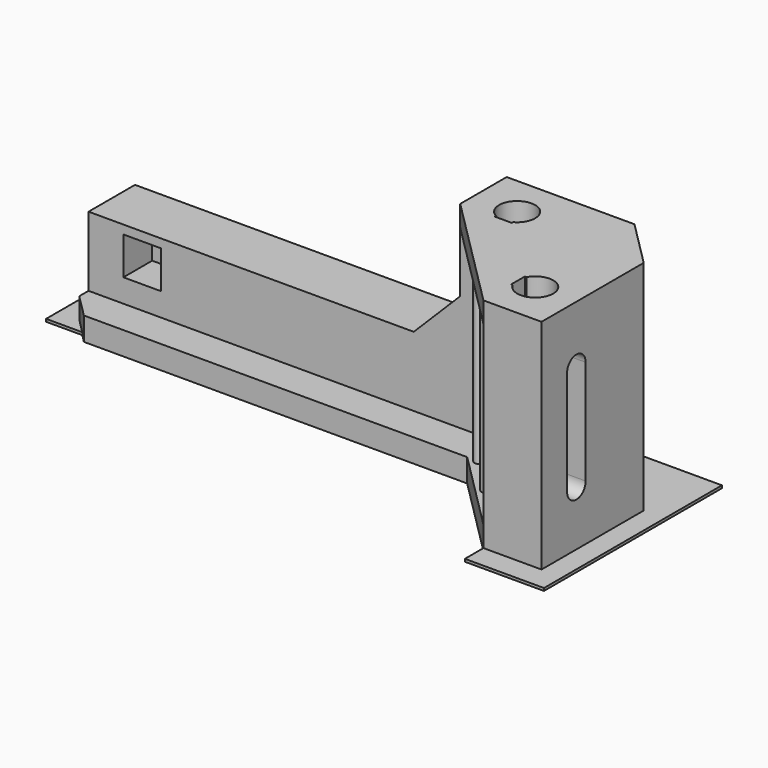
from build123d import *

# Parameters (mm, degrees)
PAD_DEPTH       = 17
PAD001_DEPTH    = 2
PAD002_DEPTH    = 1.8
SKETCH003_W     = 32
SKETCH003_H     = 8
PAD003_DEPTH    = 5
SKETCH004_W     = 3.25
SKETCH004_H     = 3.25
POCKET_DEPTH    = 3.1
SKETCH005_W     = 6.497684
SKETCH005_H     = 9.461539
SKETCH005_W_2   = 6.809606
SKETCH005_H_2   = 19.151065
PAD004_DEPTH    = 0.225
CHAMFER_SIZE    = 4
SKETCH006_R     = 0.375
PAD005_DEPTH    = 16
POCKET001_DEPTH = 3
POCKET002_DEPTH = 3
SKETCH009_W     = 42
SKETCH009_H     = 2
PAD006_DEPTH    = 3
CHAMFER001_SIZE = 2


with BuildPart() as part:
    # Sketch → Pad (new body)
    with BuildSketch(Plane.XY):
        with BuildLine():
            Line((-10, 0), (-10, 5))
            Line((-10, 5), (5, 5))
            Line((5, 5), (5, -10))
            Line((5, -10), (0, -10))
            Line((0, -7.05), (0, -10))
            Line((0, -7.05), (0.143534, -7.05))
            ThreePointArc((0.143534, -7.05), (3.05, -6.3), (0.143534, -5.55))
            Line((0, -5.55), (0.143534, -5.55))
            Line((0, 0), (0, -5.55))
            Line((0, 0), (-5.55, 0))
            Line((-5.55, 0), (-5.55, 0.143534))
            ThreePointArc((-5.55, 0.143534), (-6.3, 3.05), (-7.05, 0.143534))
            Line((-7.05, 0), (-7.05, 0.143534))
            Line((-10, 0), (-7.05, 0))
        make_face()
    extrude(amount=-PAD_DEPTH)

    # Sketch001 (on Face16 of Pad) → Pad001 (join)
    with BuildSketch(Plane(origin=(0, 0, -17), x_dir=(1, 0, 0), z_dir=(0, 0, -1))):
        Polygon((5, -5), (-10, -5), (-10, 0), (0, 10), (5, 10), align=None)
    extrude(amount=PAD001_DEPTH)

    # Sketch002 (on Face1 of Pad001) → Pad002 (join)
    with BuildSketch(Plane.XY):
        Polygon((0, -10), (0, 0), (-10, 0), align=None)
    extrude(amount=-PAD002_DEPTH)

    # Sketch003 (on Face10 of Pad002) → Pad003 (join)
    with BuildSketch(Plane.XZ):
        with Locations((-26, -15)):
            Rectangle(SKETCH003_W, SKETCH003_H)
    extrude(amount=-PAD003_DEPTH)

    # Sketch004 (on Face22 of Pad003) → Pocket (cut)
    with BuildSketch(Plane.XZ):
        with Locations((-37.375, -13.375)):
            Rectangle(SKETCH004_W, SKETCH004_H)
    extrude(amount=-POCKET_DEPTH, mode=Mode.SUBTRACT)

    # Sketch005 → Pad004 (join)
    with BuildSketch(Plane(origin=(0, 0, -19), x_dir=(1, 0, 0), z_dir=(0, 0, -1))):
        with Locations((-40.563391, -2.425933)):
            Rectangle(SKETCH005_W, SKETCH005_H)
        with Locations((3.404803, 2.422745)):
            Rectangle(SKETCH005_W_2, SKETCH005_H_2)
    extrude(amount=-PAD004_DEPTH)

    # Chamfer
    chamfer_edges = [part.edges().sort_by_distance(p)[0] for p in [
        (-10, 2.5, -11),
        (5, 5, -9.3875),
    ]]
    chamfer(chamfer_edges, length=CHAMFER_SIZE)

    # Sketch006 (on Face29 of Chamfer) → Pad005 (join)
    with BuildSketch(Plane.XY.offset(-17)):
        with Locations((-6, -3)):
            Circle(SKETCH006_R)
        with Locations((-3, -6)):
            Circle(SKETCH006_R)
    extrude(amount=PAD005_DEPTH)

    # Sketch007 (on Face2 of Pad005) → Pocket001 (cut, symmetric)
    with BuildSketch(Plane.YZ.offset(5)):
        with BuildLine():
            ThreePointArc((-5.25, -5), (-6.25, -4), (-7.25, -5))
            Line((-7.25, -5), (-7.25, -14))
            ThreePointArc((-7.25, -14), (-6.25, -15), (-5.25, -14))
            Line((-5.25, -5), (-5.25, -14))
        make_face()
    extrude(amount=POCKET001_DEPTH, both=True, mode=Mode.SUBTRACT)

    # Sketch008 (on Face5 of Pocket001) → Pocket002 (cut)
    with BuildSketch(Plane(origin=(0, 5, 0), x_dir=(-1, 0, 0), z_dir=(0, 1, 0))):
        with BuildLine():
            ThreePointArc((7.25, -5), (6.25, -4), (5.25, -5))
            Line((5.25, -5), (5.25, -14))
            ThreePointArc((5.25, -14), (6.25, -15), (7.25, -14))
            Line((7.25, -5), (7.25, -14))
        make_face()
    extrude(amount=-POCKET002_DEPTH, mode=Mode.SUBTRACT)

    # Sketch009 (on Face35 of Pocket002) → Pad006 (join)
    with BuildSketch(Plane.XZ):
        with Locations((-21, -18)):
            Rectangle(SKETCH009_W, SKETCH009_H)
    extrude(amount=PAD006_DEPTH)

    # Chamfer001
    chamfer001_edges = [part.edges().sort_by_distance(p)[0] for p in [
        (-42, -3, -18),
    ]]
    chamfer(chamfer001_edges, length=CHAMFER001_SIZE)


solid = part.part
